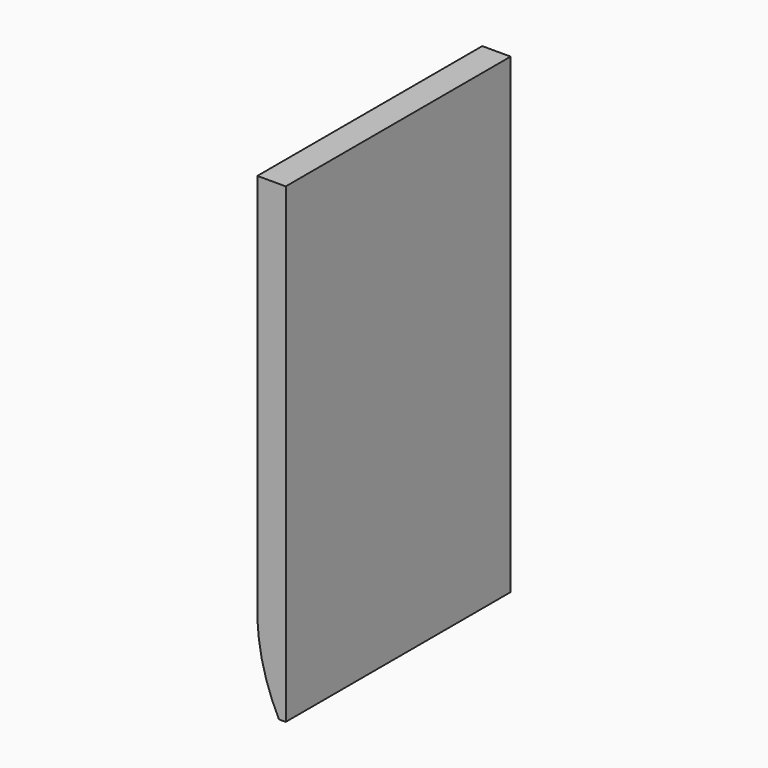
from build123d import *

# Parameters (mm, degrees)
F0_W     = 7.426
F0_H     = 12.45523
F1_DEPTH = 0.75
F3_DEPTH = 7.427


with BuildPart() as f1:
    # F0 (on Right) → F1 (new body)
    with BuildSketch(Plane.YZ):
        with Locations((4.126913, 6.227615)):
            Rectangle(F0_W, F0_H)
    extrude(amount=F1_DEPTH)

    # F2 (on face) → F3 (cut, through all)
    with BuildSketch(Plane.XZ.offset(-0.413913)):
        with BuildLine():
            ThreePointArc((0.57, 0), (0.168979, 1.042876), (0, 2.147347))
            Line((0, 2.147347), (0, 0))
            Line((0, 0), (0.57, 0))
        make_face()
    extrude(amount=-F3_DEPTH, mode=Mode.SUBTRACT)


solid = f1.part
